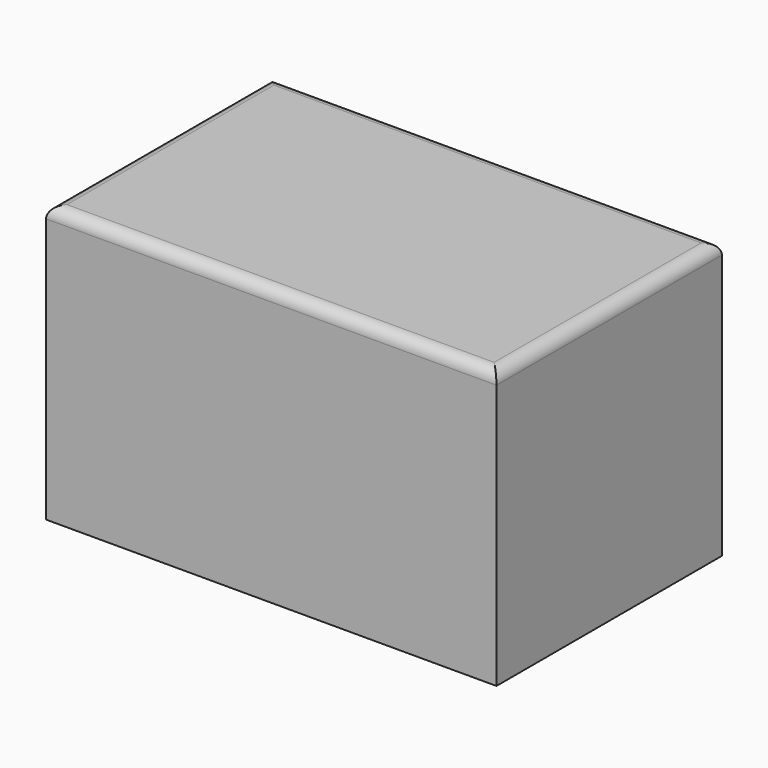
from build123d import *

# Parameters (mm, degrees)
F0_W     = 196.876261
F0_H     = 120.822865
F1_DEPTH = 123.19
F2_R     = 5.08


with BuildPart() as f1:
    # F0 (on Front) → F1 (new body)
    with BuildSketch(Plane.XZ):
        with Locations((-39.738877, 5.930362)):
            Rectangle(F0_W, F0_H)
    extrude(amount=-F1_DEPTH)

    # F2
    f2_edges = [f1.edges().sort_by_distance(p)[0] for p in [
        (58.699254, 61.595, 66.341795),
        (-138.177007, 61.595, 66.341795),
        (-39.738877, 0, 66.341795),
        (-39.738877, 123.19, 66.341795),
    ]]
    fillet(f2_edges, radius=F2_R)


solid = f1.part
